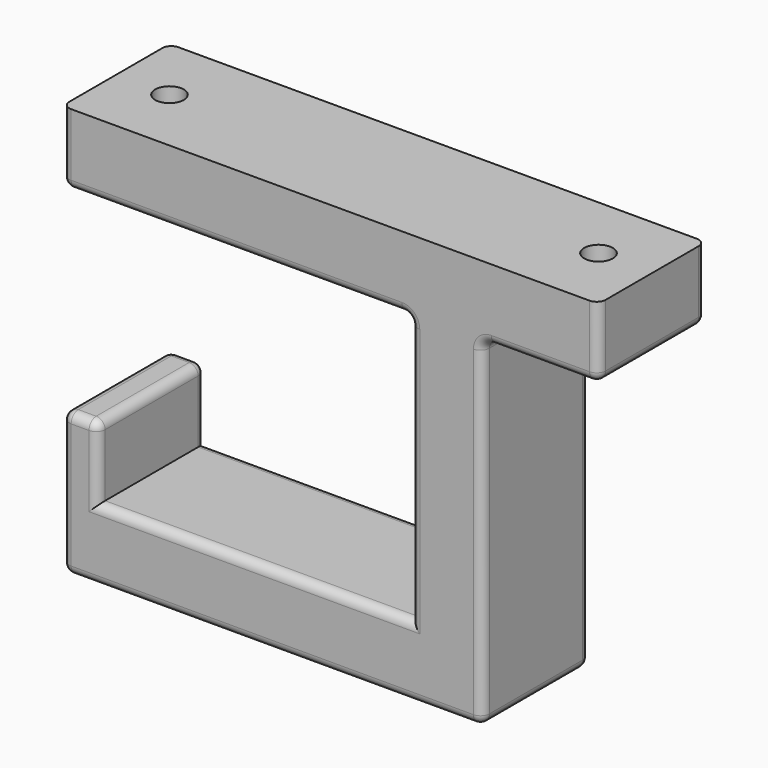
from build123d import *

# Parameters (mm, degrees)
PAD_DEPTH       = 15
SKETCH001_R     = 1.6
POCKET_DEPTH    = 8
SKETCH002_R     = 4
POCKET001_DEPTH = 3
FILLET_R        = 1
FILLET001_R     = 1
FILLET002_R     = 1
FILLET003_R     = 1
FILLET004_R     = 1
FILLET005_R     = 1
FILLET006_R     = 1
FILLET007_R     = 1
FILLET008_R     = 1
FILLET009_R     = 1
FILLET010_R     = 1
FILLET011_R     = 1
FILLET012_R     = 1
FILLET013_R     = 1
FILLET014_R     = 1
FILLET015_R     = 1


with BuildPart() as part:
    # Sketch → Pad (new body)
    with BuildSketch(Plane.XZ):
        Polygon((-30, 24.0033), (30, 24.0033), (30, 16.0033), (17, 16.0033), (17, -21.9967), (-30, -21.9967), (-30, -5.9967), (-26, -5.9967), (-26, -13.9967), (9, -13.9967), (9, 16.0033), (-30, 16.0033), align=None)
    extrude(amount=PAD_DEPTH)

    # Sketch001 → Pocket (cut)
    with BuildSketch(Plane(origin=(0, 0, 24.0033), x_dir=(-1, 0, 0), z_dir=(0, 0, 1))):
        with Locations((-24, 7.5)):
            Circle(SKETCH001_R)
        with Locations((24, 7.5)):
            Circle(SKETCH001_R)
    extrude(amount=-POCKET_DEPTH, mode=Mode.SUBTRACT)

    # Sketch002 → Pocket001 (cut)
    with BuildSketch(Plane(origin=(0, 0, 16.0033), x_dir=(1, 0, 0), z_dir=(0, 0, -1))):
        with Locations((24, 7.5)):
            Circle(SKETCH002_R)
        with Locations((-24, 7.5)):
            Circle(SKETCH002_R)
    extrude(amount=-POCKET001_DEPTH, mode=Mode.SUBTRACT)

    # Fillet
    fillet_edges = [part.edges().sort_by_distance(p)[0] for p in [
        (-8.5, -15, -13.9967),
    ]]
    fillet(fillet_edges, radius=FILLET_R)

    # Fillet001
    fillet001_edges = [part.edges().sort_by_distance(p)[0] for p in [
        (-26, -7.5, -5.9967),
    ]]
    fillet(fillet001_edges, radius=FILLET001_R)

    # Fillet002
    fillet002_edges = [part.edges().sort_by_distance(p)[0] for p in [
        (-30, -7.5, -5.9967),
    ]]
    fillet(fillet002_edges, radius=FILLET002_R)

    # Fillet003
    fillet003_edges = [part.edges().sort_by_distance(p)[0] for p in [
        (-30, -7.5, -21.9967),
    ]]
    fillet(fillet003_edges, radius=FILLET003_R)

    # Fillet004
    fillet004_edges = [part.edges().sort_by_distance(p)[0] for p in [
        (17, -7.5, -21.9967),
    ]]
    fillet(fillet004_edges, radius=FILLET004_R)

    # Fillet005
    fillet005_edges = [part.edges().sort_by_distance(p)[0] for p in [
        (-8.5, 0, -13.9967),
    ]]
    fillet(fillet005_edges, radius=FILLET005_R)

    # Fillet006
    fillet006_edges = [part.edges().sort_by_distance(p)[0] for p in [
        (17, -7.5, 16.0033),
    ]]
    fillet(fillet006_edges, radius=FILLET006_R)

    # Fillet007
    fillet007_edges = [part.edges().sort_by_distance(p)[0] for p in [
        (9, -7.5, 16.0033),
    ]]
    fillet(fillet007_edges, radius=FILLET007_R)

    # Fillet008
    fillet008_edges = [part.edges().sort_by_distance(p)[0] for p in [
        (-30, -7.5, 16.0033),
    ]]
    fillet(fillet008_edges, radius=FILLET008_R)

    # Fillet009
    fillet009_edges = [part.edges().sort_by_distance(p)[0] for p in [
        (30, -7.5, 16.0033),
    ]]
    fillet(fillet009_edges, radius=FILLET009_R)

    # Fillet010
    fillet010_edges = [part.edges().sort_by_distance(p)[0] for p in [
        (9, -15, 0.5033),
    ]]
    fillet(fillet010_edges, radius=FILLET010_R)

    # Fillet011
    fillet011_edges = [part.edges().sort_by_distance(p)[0] for p in [
        (9, 0, 0.5033),
    ]]
    fillet(fillet011_edges, radius=FILLET011_R)

    # Fillet012
    fillet012_edges = [part.edges().sort_by_distance(p)[0] for p in [
        (17, -15, -2.9967),
    ]]
    fillet(fillet012_edges, radius=FILLET012_R)

    # Fillet013
    fillet013_edges = [part.edges().sort_by_distance(p)[0] for p in [
        (17, 0, -2.9967),
    ]]
    fillet(fillet013_edges, radius=FILLET013_R)

    # Fillet014
    fillet014_edges = [part.edges().sort_by_distance(p)[0] for p in [
        (-28, -7.5, 19.0033),
    ]]
    fillet(fillet014_edges, radius=FILLET014_R)

    # Fillet015
    fillet015_edges = [part.edges().sort_by_distance(p)[0] for p in [
        (20, -7.5, 19.0033),
    ]]
    fillet(fillet015_edges, radius=FILLET015_R)


solid = part.part
